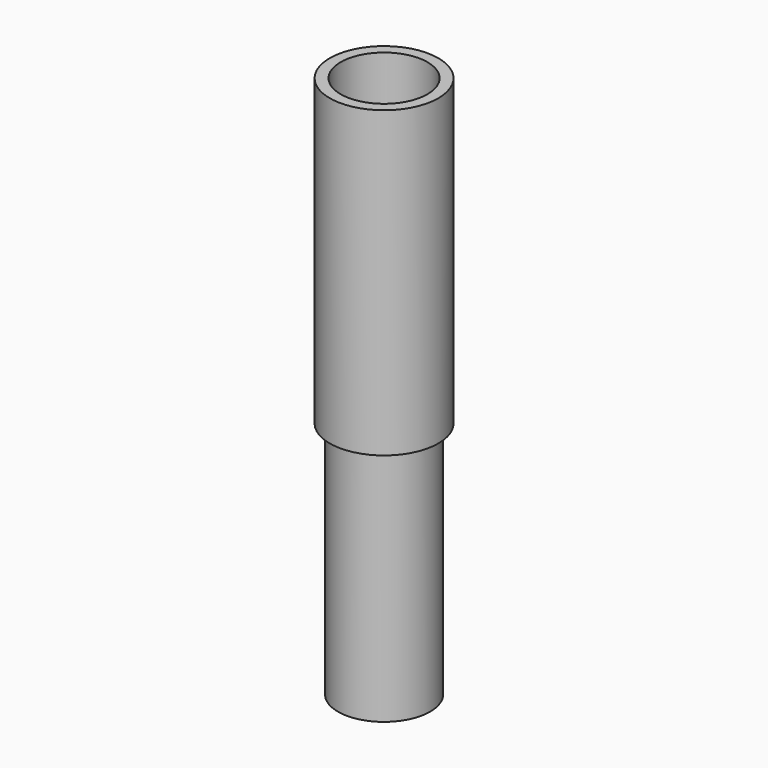
from build123d import *

# Parameters (mm, degrees)
SKETCH_R        = 5
PAD_DEPTH       = 50
SKETCH001_R     = 2
POCKET_DEPTH    = 50.001
SKETCH002_R     = 4
POCKET001_DEPTH = 25
SKETCH003_R     = 3
POCKET002_DEPTH = 20
SKETCH004_R     = 5
SKETCH004_R_2   = 4.25
POCKET003_DEPTH = 22


with BuildPart() as part:
    # Sketch → Pad (new body)
    with BuildSketch(Plane.XY):
        Circle(SKETCH_R)
    extrude(amount=PAD_DEPTH)

    # Sketch001 → Pocket (cut, through all)
    with BuildSketch(Plane.XY.offset(50)):
        Circle(SKETCH001_R)
    extrude(amount=-POCKET_DEPTH, mode=Mode.SUBTRACT)

    # Sketch002 → Pocket001 (cut)
    with BuildSketch(Plane.XY.offset(50)):
        Circle(SKETCH002_R)
    extrude(amount=-POCKET001_DEPTH, mode=Mode.SUBTRACT)

    # Sketch003 → Pocket002 (cut)
    with BuildSketch(Plane(origin=(0, 0, 0), x_dir=(1, 0, 0), z_dir=(0, 0, -1))):
        Circle(SKETCH003_R)
    extrude(amount=-POCKET002_DEPTH, mode=Mode.SUBTRACT)

    # Sketch004 → Pocket003 (cut)
    with BuildSketch(Plane(origin=(0, 0, 0), x_dir=(1, 0, 0), z_dir=(0, 0, -1))):
        Circle(SKETCH004_R)
        Circle(SKETCH004_R_2, mode=Mode.SUBTRACT)
    extrude(amount=-POCKET003_DEPTH, mode=Mode.SUBTRACT)


solid = part.part
